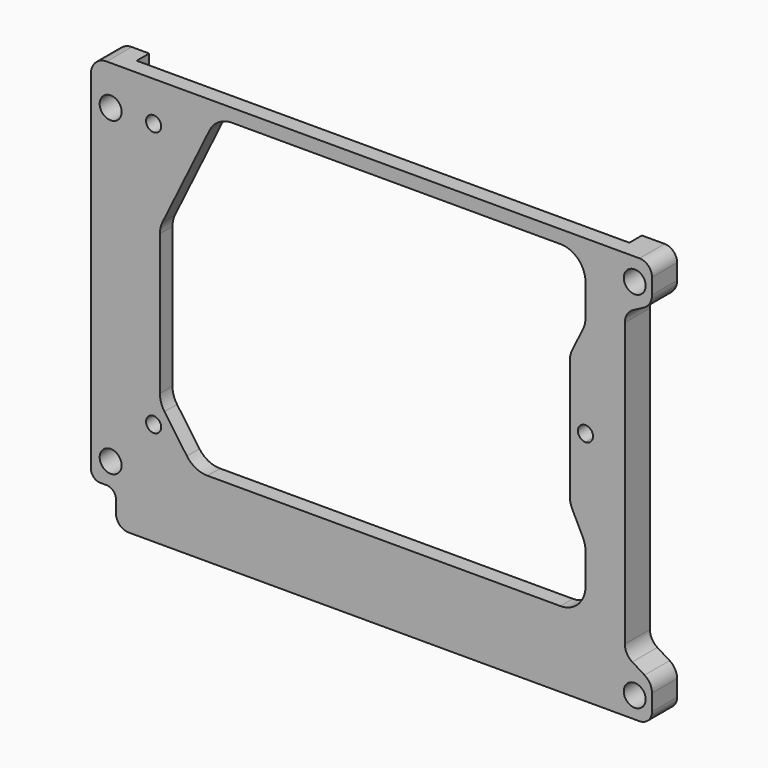
from build123d import *

# Parameters (mm, degrees)
F0_R     = 2.219223
F0_R_2   = 1.529807
F0_R_3   = 2.219078
F0_R_4   = 2.227919
F0_R_5   = 1.528278
F0_R_6   = 2.219557
F1_DEPTH = 6.35
F2_R     = 1.529807
F2_R_2   = 1.530286
F2_R_3   = 1.528278
F3_DEPTH = 3.175


with BuildPart() as f1:
    # F0 (on Front) → F1 (new body)
    with BuildSketch(Plane.XZ):
        with BuildLine():
            Line((54.2656, 41.2496), (-53.6194, 41.2496))
            ThreePointArc((-53.6194, 41.2496), (-55.864464, 40.319664), (-56.7944, 38.0746))
            Line((-56.7944, 38.0746), (-56.7944, -32.3604))
            ThreePointArc((-56.7944, -32.3604), (-56.236438, -33.707438), (-54.8894, -34.2654))
            Line((-54.8894, -34.2654), (-53.6194, -34.2654))
            ThreePointArc((-53.6194, -34.2654), (-52.272362, -34.823362), (-51.7144, -36.1704))
            Line((-51.7144, -36.1704), (-51.7144, -38.7104))
            ThreePointArc((-51.7144, -38.7104), (-50.970451, -40.506451), (-49.1744, -41.2504))
            Line((-49.1744, -41.2504), (54.2656, -41.2504))
            ThreePointArc((54.2656, -41.2504), (56.061651, -40.506451), (56.8056, -38.7104))
            Line((56.8056, -38.7104), (56.8056, -35.401342))
            ThreePointArc((56.8056, -35.401342), (56.40343, -33.854721), (55.298806, -32.699913))
            Line((55.298806, -32.699913), (52.812394, -31.164487))
            ThreePointArc((52.812394, -31.164487), (51.70777, -30.009679), (51.3056, -28.463058))
            Line((51.3056, -28.463058), (51.3056, 28.811881))
            ThreePointArc((51.3056, 28.811881), (51.761511, 30.451144), (52.998313, 31.619629))
            Line((52.998313, 31.619629), (55.112887, 32.735971))
            ThreePointArc((55.112887, 32.735971), (56.349689, 33.904456), (56.8056, 35.543719))
            Line((56.8056, 35.543719), (56.8056, 38.7096))
            ThreePointArc((56.8056, 38.7096), (56.061651, 40.505651), (54.2656, 41.2496))
        make_face()
        with Locations((-52.7944, -29.7504)):
            Circle(F0_R, mode=Mode.SUBTRACT)
        with Locations((-44.0944, -20.3454)):
            Circle(F0_R_2, mode=Mode.SUBTRACT)
        with Locations((53.3056, -36.9504)):
            Circle(F0_R_3, mode=Mode.SUBTRACT)
        with Locations((-52.7944, 33.2496)):
            Circle(F0_R_4, mode=Mode.SUBTRACT)
        with Locations((-44.0944, 33.2486)):
            Circle(F0_R_5, mode=Mode.SUBTRACT)
        with BuildLine():
            ThreePointArc((43.330965, -20.8534), (41.843067, -24.445502), (38.250965, -25.9334))
            Line((38.250965, -25.9334), (-33.205545, -25.9334))
            ThreePointArc((-33.205545, -25.9334), (-35.543803, -25.363272), (-37.357216, -23.780861))
            Line((-37.357216, -23.780861), (-41.896071, -17.343939))
            ThreePointArc((-41.896071, -17.343939), (-42.586759, -15.952042), (-42.8244, -14.416478))
            Line((-42.8244, -14.416478), (-42.8244, 14.03877))
            ThreePointArc((-42.8244, 14.03877), (-42.693554, 15.184314), (-42.307758, 16.270847))
            Line((-42.307758, 16.270847), (-32.787406, 35.734677))
            ThreePointArc((-32.787406, 35.734677), (-30.913607, 37.812203), (-28.224048, 38.5826))
            Line((-28.224048, 38.5826), (38.250965, 38.5826))
            ThreePointArc((38.250965, 38.5826), (41.843067, 37.094702), (43.330965, 33.5026))
            Line((43.330965, 33.5026), (43.330965, 27.081825))
            ThreePointArc((43.330965, 27.081825), (43.19507, 25.91468), (42.794655, 24.80998))
            Line((42.794655, 24.80998), (40.692275, 20.60522))
            ThreePointArc((40.692275, 20.60522), (40.29186, 19.50052), (40.155965, 18.333375))
            Line((40.155965, 18.333375), (40.155965, -5.684175))
            ThreePointArc((40.155965, -5.684175), (40.29186, -6.85132), (40.692275, -7.95602))
            Line((40.692275, -7.95602), (42.794655, -12.16078))
            ThreePointArc((42.794655, -12.16078), (43.19507, -13.26548), (43.330965, -14.432625))
            Line((43.330965, -14.432625), (43.330965, -20.8534))
        make_face(mode=Mode.SUBTRACT)
        with BuildLine():
            ThreePointArc((43.330965, 7.981886), (44.413041, 7.533676), (44.861251, 6.4516))
            ThreePointArc((44.861251, 6.4516), (44.413041, 5.369524), (43.330965, 4.921314))
            ThreePointArc((43.330965, 4.921314), (41.800678, 6.4516), (43.330965, 7.981886))
        make_face(mode=Mode.SUBTRACT)
        with Locations((53.3056, 36.7496)):
            Circle(F0_R_6, mode=Mode.SUBTRACT)
    extrude(amount=-F1_DEPTH)

    # F2 (on face) → F3 (cut)
    with BuildSketch(Plane(origin=(0, 6.35, 0), x_dir=(-1, 0, 0), z_dir=(0, 1, 0))):
        with BuildLine():
            Line((-47.775965, -29.4894), (48.1584, -29.4894))
            ThreePointArc((48.1584, -29.4894), (49.505438, -28.931438), (50.0634, -27.5844))
            Line((50.0634, -27.5844), (50.0634, 41.2496))
            Line((50.0634, 41.2496), (-49.680965, 41.2496))
            Line((-49.680965, 41.2496), (-49.680965, -27.5844))
            ThreePointArc((-49.680965, -27.5844), (-49.123003, -28.931438), (-47.775965, -29.4894))
        make_face()
        with Locations((44.0944, -20.3454)):
            Circle(F2_R, mode=Mode.SUBTRACT)
        with Locations((-43.330965, 6.4516)):
            Circle(F2_R_2, mode=Mode.SUBTRACT)
        with BuildLine():
            ThreePointArc((-40.692275, -7.95602), (-40.29186, -6.85132), (-40.155965, -5.684175))
            Line((-40.155965, -5.684175), (-40.155965, 18.333375))
            ThreePointArc((-40.155965, 18.333375), (-40.29186, 19.50052), (-40.692275, 20.60522))
            Line((-40.692275, 20.60522), (-42.794655, 24.80998))
            ThreePointArc((-42.794655, 24.80998), (-43.19507, 25.91468), (-43.330965, 27.081825))
            Line((-43.330965, 27.081825), (-43.330965, 33.5026))
            ThreePointArc((-43.330965, 33.5026), (-41.843067, 37.094702), (-38.250965, 38.5826))
            Line((-38.250965, 38.5826), (28.224048, 38.5826))
            ThreePointArc((28.224048, 38.5826), (30.913607, 37.812203), (32.787406, 35.734677))
            Line((32.787406, 35.734677), (42.307758, 16.270847))
            ThreePointArc((42.307758, 16.270847), (42.693554, 15.184314), (42.8244, 14.03877))
            Line((42.8244, 14.03877), (42.8244, -14.416478))
            ThreePointArc((42.8244, -14.416478), (42.586759, -15.952042), (41.896071, -17.343939))
            Line((41.896071, -17.343939), (37.357216, -23.780861))
            ThreePointArc((37.357216, -23.780861), (35.543803, -25.363272), (33.205545, -25.9334))
            Line((33.205545, -25.9334), (-38.250965, -25.9334))
            ThreePointArc((-38.250965, -25.9334), (-41.843067, -24.445502), (-43.330965, -20.8534))
            Line((-43.330965, -20.8534), (-43.330965, -14.432625))
            ThreePointArc((-43.330965, -14.432625), (-43.19507, -13.26548), (-42.794655, -12.16078))
            Line((-42.794655, -12.16078), (-40.692275, -7.95602))
        make_face(mode=Mode.SUBTRACT)
        with Locations((44.0944, 33.2486)):
            Circle(F2_R_3, mode=Mode.SUBTRACT)
    extrude(amount=-F3_DEPTH, mode=Mode.SUBTRACT)


solid = f1.part
